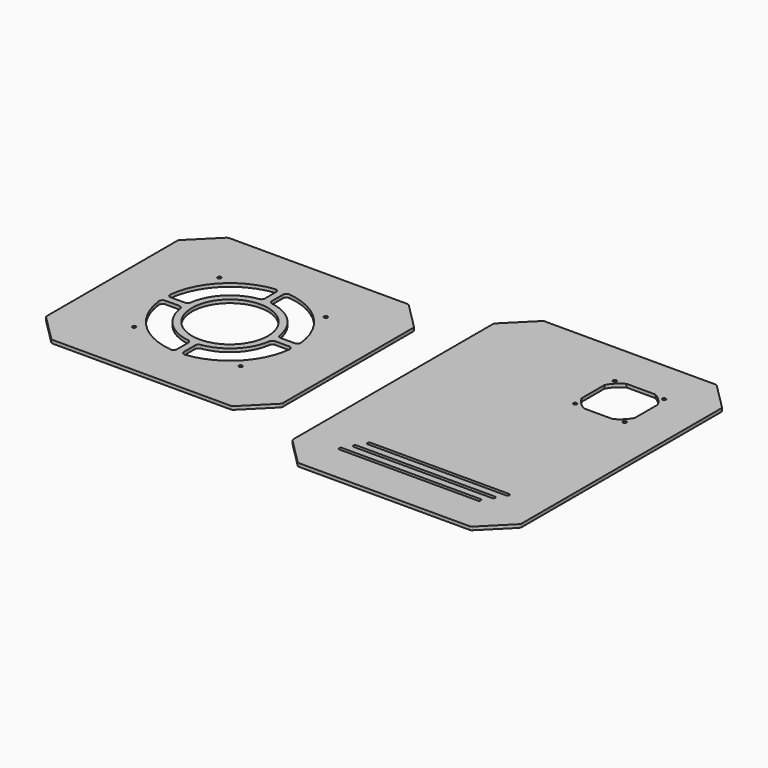
from build123d import *

# Parameters (mm, degrees)
SKETCH001_R   = 2.5
PAD_DEPTH     = 2.38125
SKETCH002_R   = 55
SKETCH002_R_2 = 2.5
PAD001_DEPTH  = 2.38125
FILLET_R      = 5


with BuildPart() as side_acrylic_panel:
    # Sketch001 → Pad (new body, symmetric)
    with BuildSketch(Plane(origin=(400, 1, 0), x_dir=(1, 0, 0), z_dir=(0, 0, 1))):
        with BuildLine():
            Line((-165, 180), (-165, -180))
            ThreePointArc((-165, -180), (-164.619398, -181.913417), (-163.535534, -183.535534))
            Line((-163.535534, -183.535534), (-126.535534, -220.535534))
            ThreePointArc((-126.535534, -220.535534), (-124.913417, -221.619398), (-123, -222))
            Line((-123, -222), (123, -222))
            ThreePointArc((123, -222), (124.913417, -221.619398), (126.535534, -220.535534))
            Line((126.535534, -220.535534), (163.535534, -183.535534))
            ThreePointArc((163.535534, -183.535534), (164.619398, -181.913417), (165, -180))
            Line((165, -180), (165, 180))
            ThreePointArc((165, 180), (164.619398, 181.913417), (163.535534, 183.535534))
            Line((163.535534, 183.535534), (126.535534, 220.535534))
            ThreePointArc((126.535534, 220.535534), (124.913417, 221.619398), (123, 222))
            Line((123, 222), (-123, 222))
            ThreePointArc((-123, 222), (-124.913417, 221.619398), (-126.535534, 220.535534))
            Line((-126.535534, 220.535534), (-163.535534, 183.535534))
            ThreePointArc((-163.535534, 183.535534), (-164.619398, 181.913417), (-165, 180))
        make_face()
        with Locations((29.25, 157.75)):
            Circle(SKETCH001_R, mode=Mode.SUBTRACT)
        with Locations((100.75, 157.75)):
            Circle(SKETCH001_R, mode=Mode.SUBTRACT)
        with Locations((100.75, 86.25)):
            Circle(SKETCH001_R, mode=Mode.SUBTRACT)
        with Locations((29.25, 86.25)):
            Circle(SKETCH001_R, mode=Mode.SUBTRACT)
        with BuildLine():
            ThreePointArc((-91.339746, -132.5), (-93.839746, -135), (-91.339746, -137.5))
            Line((-91.339746, -137.5), (108.660254, -137.5))
            ThreePointArc((108.660254, -137.5), (111.160254, -135), (108.660254, -132.5))
            Line((-91.339746, -132.5), (108.660254, -132.5))
        make_face(mode=Mode.SUBTRACT)
        with BuildLine():
            ThreePointArc((-100, -147.5), (-102.5, -150), (-100, -152.5))
            Line((-100, -152.5), (100, -152.5))
            ThreePointArc((100, -152.5), (102.5, -150), (100, -147.5))
            Line((-100, -147.5), (100, -147.5))
        make_face(mode=Mode.SUBTRACT)
        with BuildLine():
            ThreePointArc((-108.660254, -162.5), (-111.160254, -165), (-108.660254, -167.5))
            Line((-108.660254, -167.5), (91.339746, -167.5))
            ThreePointArc((91.339746, -167.5), (93.839746, -165), (91.339746, -162.5))
            Line((-108.660254, -162.5), (91.339746, -162.5))
        make_face(mode=Mode.SUBTRACT)
        with BuildLine():
            Line((44.219901, 160.5), (85.780099, 160.5))
            ThreePointArc((103.5, 142.780099), (95.935922, 152.935922), (85.780099, 160.5))
            Line((103.5, 101.219901), (103.5, 142.780099))
            ThreePointArc((85.780099, 83.5), (95.935922, 91.064078), (103.5, 101.219901))
            Line((85.780099, 83.5), (44.219901, 83.5))
            ThreePointArc((26.5, 101.219901), (34.064078, 91.064078), (44.219901, 83.5))
            Line((26.5, 101.219901), (26.5, 142.780099))
            ThreePointArc((44.219901, 160.5), (34.064078, 152.935922), (26.5, 142.780099))
        make_face(mode=Mode.SUBTRACT)
    extrude(amount=PAD_DEPTH, both=True)


with BuildPart() as top_acrylic_panel:
    # Sketch002 → Pad001 (new body, symmetric)
    with BuildSketch(Plane.XY):
        with BuildLine():
            Line((-170.5, 117.5), (-170.5, -117.5))
            ThreePointArc((-170.5, -117.5), (-170.119398, -119.413417), (-169.035534, -121.035534))
            Line((-169.035534, -121.035534), (-132.035534, -158.035534))
            ThreePointArc((-132.035534, -158.035534), (-130.413417, -159.119398), (-128.5, -159.5))
            Line((-128.5, -159.5), (128.5, -159.5))
            ThreePointArc((128.5, -159.5), (130.413417, -159.119398), (132.035534, -158.035534))
            Line((132.035534, -158.035534), (169.035534, -121.035534))
            ThreePointArc((169.035534, -121.035534), (170.119398, -119.413417), (170.5, -117.5))
            Line((170.5, -117.5), (170.5, 117.5))
            ThreePointArc((170.5, 117.5), (170.119398, 119.413417), (169.035534, 121.035534))
            Line((169.035534, 121.035534), (132.035534, 158.035534))
            ThreePointArc((132.035534, 158.035534), (130.413417, 159.119398), (128.5, 159.5))
            Line((128.5, 159.5), (-128.5, 159.5))
            ThreePointArc((-128.5, 159.5), (-130.413417, 159.119398), (-132.035534, 158.035534))
            Line((-132.035534, 158.035534), (-169.035534, 121.035534))
            ThreePointArc((-169.035534, 121.035534), (-170.119398, 119.413417), (-170.5, 117.5))
        make_face()
        Circle(SKETCH002_R, mode=Mode.SUBTRACT)
        with Locations((-77, 77)):
            Circle(SKETCH002_R_2, mode=Mode.SUBTRACT)
        with Locations((77, -77)):
            Circle(SKETCH002_R_2, mode=Mode.SUBTRACT)
        with Locations((-77, -77)):
            Circle(SKETCH002_R_2, mode=Mode.SUBTRACT)
        with Locations((77, 77)):
            Circle(SKETCH002_R_2, mode=Mode.SUBTRACT)
        with BuildLine():
            Line((-94.86833, 5), (-64.807407, 5))
            ThreePointArc((-5, 64.807407), (-45.961941, 45.961941), (-64.807407, 5))
            Line((-5, 94.86833), (-5, 64.807407))
            ThreePointArc((-5, 94.86833), (-67.175144, 67.175144), (-94.86833, 5))
        make_face(mode=Mode.SUBTRACT)
        with BuildLine():
            Line((94.86833, -5), (64.807407, -5))
            ThreePointArc((5, -64.807407), (45.961941, -45.961941), (64.807407, -5))
            Line((5, -64.807407), (5, -94.86833))
            ThreePointArc((5, -94.86833), (67.175144, -67.175144), (94.86833, -5))
        make_face(mode=Mode.SUBTRACT)
        with BuildLine():
            Line((5, 94.86833), (5, 64.807407))
            ThreePointArc((64.807407, 5), (45.961941, 45.961941), (5, 64.807407))
            Line((64.807407, 5), (94.86833, 5))
            ThreePointArc((94.86833, 5), (67.175144, 67.175144), (5, 94.86833))
        make_face(mode=Mode.SUBTRACT)
        with BuildLine():
            Line((-5, -64.807407), (-5, -94.86833))
            ThreePointArc((-94.86833, -5), (-67.175144, -67.175144), (-5, -94.86833))
            Line((-64.807407, -5), (-94.86833, -5))
            ThreePointArc((-64.807407, -5), (-45.961941, -45.961941), (-5, -64.807407))
        make_face(mode=Mode.SUBTRACT)
    extrude(amount=PAD001_DEPTH, both=True)

    # Fillet
    fillet_edges = [top_acrylic_panel.edges().sort_by_distance(p)[0] for p in [
        (5, 94.86833, 0),
        (-5, 94.86833, 0),
        (-5, 64.807407, 0),
        (5, 64.807407, 0),
        (64.807407, 5, 0),
        (64.807407, -5, 0),
        (94.86833, 5, 0),
        (94.86833, -5, 0),
        (5, -94.86833, 0),
        (-5, -94.86833, 0),
        (-5, -64.807407, 0),
        (5, -64.807407, 0),
        (-94.86833, 5, 0),
        (-94.86833, -5, 0),
        (-64.807407, -5, 0),
        (-64.807407, 5, 0),
    ]]
    fillet(fillet_edges, radius=FILLET_R)


solid = Compound([side_acrylic_panel.part, top_acrylic_panel.part])
